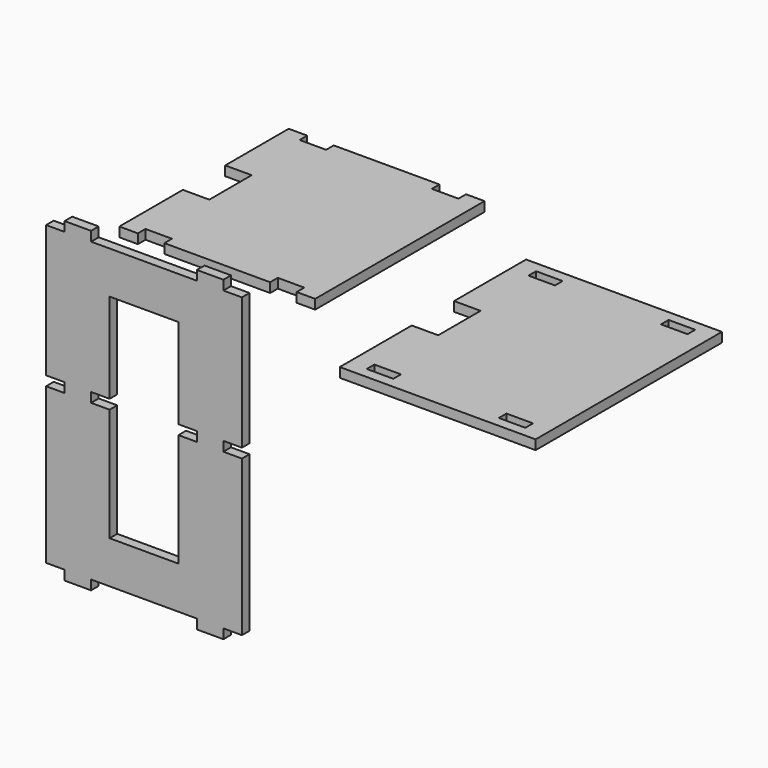
from build123d import *

# Parameters (mm, degrees)
F2_DEPTH = 18
F3_DEPTH = 18
F5_W     = 50.15719
F5_H     = 18.1
F6_DEPTH = 18
F8_W     = 50
F8_H     = 100
F9_DEPTH = 45


with BuildPart() as f2:
    # F1 (on Top) → F2 (new body)
    with BuildSketch(Plane.XY):
        Polygon((-185, 0), (-150, 0), (-150, 18), (-99.94281, 18), (-99.94281, 0), (99.94281, 0), (99.94281, 18), (150, 18), (150, 0), (185, 0), (185, 200), (185, 400), (150, 400), (150, 382), (99.94281, 382), (99.94281, 400), (-99.94281, 400), (-99.94281, 382), (-150, 382), (-150, 400), (-185, 400), (-185, 200), align=None)
    extrude(amount=F2_DEPTH)


with BuildPart() as f3:
    # F0 (on Front) → F3 (new body)
    with BuildSketch(Plane.XZ):
        Polygon((-150, -471.124116), (-150, -489.224116), (-125, -489.224116), (-100, -489.224116), (-100, -471.124116), (-65, -471.124116), (0, -471.124116), (65, -471.124116), (100, -471.124116), (100, -489.224116), (125, -489.224116), (150, -489.224116), (150, -471.124116), (185, -471.124116), (185, -177.324116), (150, -177.324116), (149.95, -177.324116), (149.95, -159.224116), (150, -159.224116), (185, -159.224116), (185, 90.775884), (150, 90.775884), (150, 108.775884), (99.94281, 108.775884), (99.94281, 90.775884), (65, 90.775884), (0, 90.775884), (-65, 90.775884), (-99.94281, 90.775884), (-99.94281, 108.775884), (-150, 108.775884), (-150, 90.775884), (-185, 90.775884), (-185, -159.224116), (-150, -159.224116), (-149.95, -159.224116), (-149.95, -177.324116), (-150, -177.324116), (-185, -177.324116), (-185, -471.124116), align=None)
        Polygon((-100, -159.224116), (-65, -159.224116), (-65, 10.775884), (0, 10.775884), (65, 10.775884), (65, -159.224116), (100, -159.224116), (100.05, -159.224116), (100.05, -177.324116), (100, -177.324116), (65, -177.324116), (65, -391.124116), (0, -391.124116), (-65, -391.124116), (-65, -177.324116), (-100, -177.324116), (-100.05, -177.324116), (-100.05, -159.224116), align=None, mode=Mode.SUBTRACT)
    extrude(amount=F3_DEPTH)


with BuildPart() as f2_1:
    # F4: moved
    add(f2.part.moved(Location((0, 155, 0))))


with BuildPart() as f6:
    # F5 (on face) → F6 (new body)
    with BuildSketch(Plane.XY.offset(18)):
        Polygon((150, 155), (185, 155), (185, 200.603484), (185, 246.206968), (185, 420.603484), (-185, 420.603484), (-185, 200.603484), (-185, 155), (-150, 155), (-150, 173), (-99.94281, 173), (-99.94281, 155), (99.94281, 155), (99.94281, 173), (150, 173), align=None)
        with Locations((-124.971405, 391.553484)):
            Rectangle(F5_W, F5_H, mode=Mode.SUBTRACT)
        with Locations((124.971405, 392.106968)):
            Rectangle(F5_W, F5_H, mode=Mode.SUBTRACT)
        Polygon((185, -19.396516), (185, 155), (150, 155), (150, 173), (99.94281, 173), (99.94281, 155), (-99.94281, 155), (-99.94281, 173), (-150, 173), (-150, 155), (-185, 155), (-185, -19.396516), align=None)
        with Locations((-124.971405, 9.653484)):
            Rectangle(F5_W, F5_H, mode=Mode.SUBTRACT)
        with Locations((124.971405, 9.1)):
            Rectangle(F5_W, F5_H, mode=Mode.SUBTRACT)
    extrude(amount=F6_DEPTH)


with BuildPart() as f6_1:
    # F7: moved
    add(f6.part.moved(Location((556, 0, 0))))


with BuildPart() as f9_tool:
    # F8 (on face) → F9 (new body)
    with BuildSketch(Plane.XY.offset(36)):
        with Locations((-160, 355)):
            Rectangle(F8_W, F8_H)
        with Locations((396, 200.603484)):
            Rectangle(F8_W, F8_H)
    extrude(amount=-F9_DEPTH)


with BuildPart() as f2_2:
    add(f2_1.part)

    # F9: cut by f9_tool
    add(f9_tool.part, mode=Mode.SUBTRACT)


with BuildPart() as f6_2:
    add(f6_1.part)

    # F9: cut by f9_tool
    add(f9_tool.part, mode=Mode.SUBTRACT)


solid = Compound([f3.part, f2_2.part, f6_2.part])
